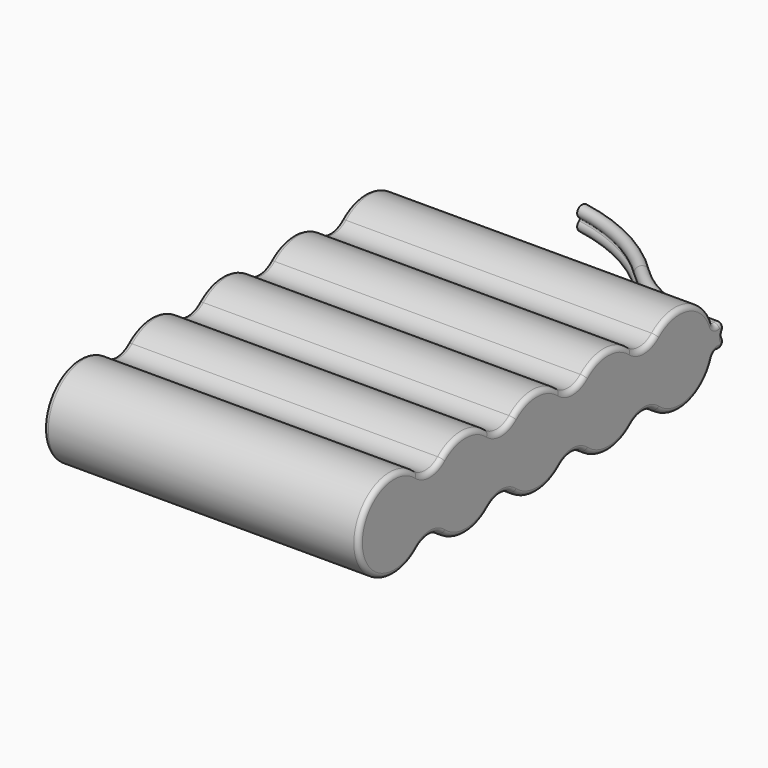
from build123d import *

# Parameters (mm, degrees)
F1_DEPTH = 53
F3_DEPTH = 50
F7_R     = 0.8


with BuildPart() as f1:
    # F0 (on Right) → F1 (new body)
    with BuildSketch(Plane.YZ):
        with BuildLine():
            ThreePointArc((17.6086956522, 5.6855203611), (15, 4.7177978871), (12.3913043478, 5.6855203611))
            ThreePointArc((12.3913043478, 5.6855203611), (0, 0), (12.3913043478, -5.6855203611))
            ThreePointArc((12.3913043478, -5.6855203611), (15, -4.7177978871), (17.6086956522, -5.6855203611))
            ThreePointArc((17.6086956522, -5.6855203611), (22.5, -7.5), (27.3913043478, -5.6855203611))
            ThreePointArc((27.3913043478, -5.6855203611), (30, -4.7177978871), (32.6086956522, -5.6855203611))
            ThreePointArc((32.6086956522, -5.6855203611), (37.5, -7.5), (42.3913043478, -5.6855203611))
            ThreePointArc((42.3913043478, -5.6855203611), (45, -4.7177978871), (47.6086956522, -5.6855203611))
            ThreePointArc((47.6086956522, -5.6855203611), (52.5, -7.5), (57.3913043478, -5.6855203611))
            ThreePointArc((57.3913043478, -5.6855203611), (60, -4.7177978871), (62.6086956522, -5.6855203611))
            ThreePointArc((62.6086956522, -5.6855203611), (69.3794538873, -7.2606923283), (74.5355746643, -2.5982088337))
            ThreePointArc((74.5355746643, -2.5982088337), (75.0024980382, -2.0625853095), (75.7073113971, -1.9723183391))
            ThreePointArc((75.7073113971, -1.9723183391), (76.7421592444, -1.5984130774), (76.8069969119, -0.5))
            ThreePointArc((76.8069969119, -0.5), (76.6730223156, 0), (76.8069969119, 0.5))
            ThreePointArc((76.8069969119, 0.5), (76.7421592444, 1.5984130774), (75.7073113971, 1.9723183391))
            ThreePointArc((75.7073113971, 1.9723183391), (75.0024980382, 2.0625853095), (74.5355746643, 2.5982088337))
            ThreePointArc((74.5355746643, 2.5982088337), (69.3794538873, 7.2606923283), (62.6086956522, 5.6855203611))
            ThreePointArc((62.6086956522, 5.6855203611), (60, 4.7177978871), (57.3913043478, 5.6855203611))
            ThreePointArc((57.3913043478, 5.6855203611), (52.5, 7.5), (47.6086956522, 5.6855203611))
            ThreePointArc((47.6086956522, 5.6855203611), (45, 4.7177978871), (42.3913043478, 5.6855203611))
            ThreePointArc((42.3913043478, 5.6855203611), (37.5, 7.5), (32.6086956522, 5.6855203611))
            ThreePointArc((32.6086956522, 5.6855203611), (30, 4.7177978871), (27.3913043478, 5.6855203611))
            ThreePointArc((27.3913043478, 5.6855203611), (22.5, 7.5), (17.6086956522, 5.6855203611))
        make_face()
    extrude(amount=F1_DEPTH)

    # F2 (on face) → F3 (cut)
    with BuildSketch(Plane(origin=(0, 0, 0), x_dir=(0, -1, 0), z_dir=(-1, 0, 0))):
        with BuildLine():
            ThreePointArc((-74.3232366862, -3.1134291585), (-74.9968540521, 0.2172080127), (-74.1315299701, 3.5032570924))
            Line((-74.1315299701, 3.5032570924), (-76.3535118617, 4.6770697505))
            ThreePointArc((-76.3535118617, 4.6770697505), (-77.5087742309, 0.2899864323), (-76.6094524504, -4.1566248075))
            Line((-76.6094524504, -4.1566248075), (-74.3232366862, -3.1134291585))
        make_face()
    extrude(amount=-F3_DEPTH, mode=Mode.SUBTRACT)

    # F6: sweep along a path in F5
    with BuildLine(Plane.XY) as f6_path:
        ThreePointArc((50, 75.9409715081), (41.758377577, 77.6507924909), (34.7607016812, 82.3284371988))
        ThreePointArc((34.7607016812, 82.3284371988), (26.9616186669, 88.0202502557), (17.821763065, 91.1323992428))
    # F4 (on face) → F6 (sweep)
    with BuildSketch(Plane(origin=(50, 0, 0), x_dir=(0, -1, 0), z_dir=(-1, 0, 0))):
        with BuildLine():
            ThreePointArc((-75.3020004417, -0.2307692308), (-75.4103091218, 0), (-75.3020004417, 0.2307692308))
            ThreePointArc((-75.3020004417, 0.2307692308), (-75.9409715081, 2), (-76.5799425744, 0.2307692308))
            ThreePointArc((-76.5799425744, 0.2307692308), (-76.4716338944, 0), (-76.5799425744, -0.2307692308))
            ThreePointArc((-76.5799425744, -0.2307692308), (-75.9409715081, -2), (-75.3020004417, -0.2307692308))
        make_face()
    sweep(path=f6_path.line)

    # F7
    f7_edges = [f1.edges().sort_by_distance(p)[0] for p in [
        (0, 0, 0),
        (53, 52.5, 7.5),
    ]]
    fillet(f7_edges, radius=F7_R)


solid = f1.part
